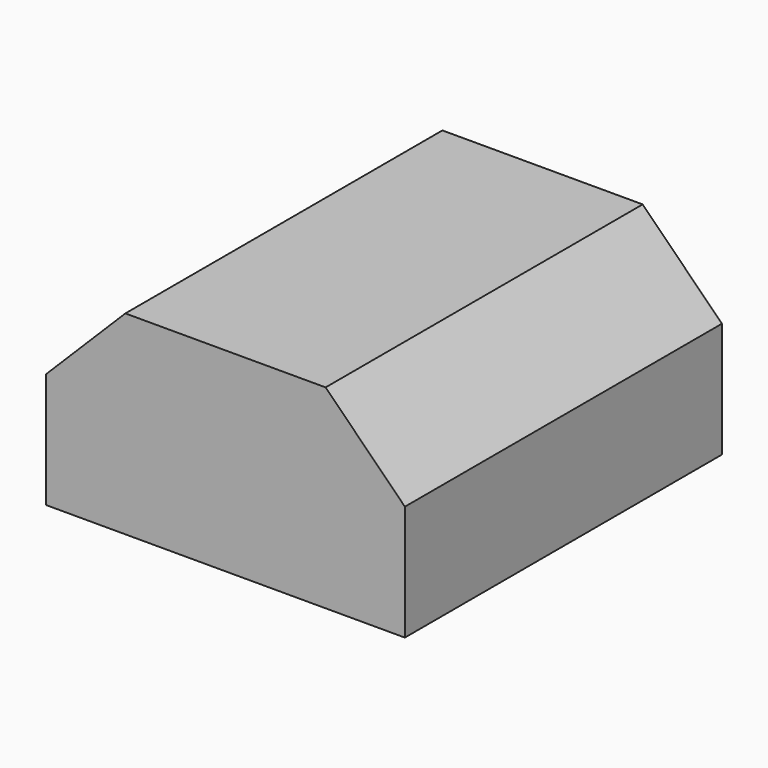
from build123d import *

# Parameters (mm, degrees)
F0_W     = 22.633268
F0_H     = 12.269363
F1_DEPTH = 25
F2_R     = 22.308841
F3_DEPTH = 29.9
F5_SIZE  = 5
F6_SIZE  = 5


with BuildPart() as f1:
    # F0 (on Front) → F1 (new body)
    with BuildSketch(Plane.XZ):
        with Locations((11.316634, -6.134682)):
            Rectangle(F0_W, F0_H)
    extrude(amount=F1_DEPTH)

    # F5
    f5_edges = [f1.edges().sort_by_distance(p)[0] for p in [
        (22.633268, -12.5, 0),
    ]]
    chamfer(f5_edges, length=F5_SIZE)

    # F6
    f6_edges = [f1.edges().sort_by_distance(p)[0] for p in [
        (0, -12.5, 0),
    ]]
    chamfer(f6_edges, length=F6_SIZE)


with BuildPart() as f3:
    # F2 (on Top) → F3 (new body)
    with BuildSketch(Plane.XY):
        with Locations((-79.230487, 19.022213)):
            Circle(F2_R)
    extrude(amount=F3_DEPTH)


solid = f1.part
